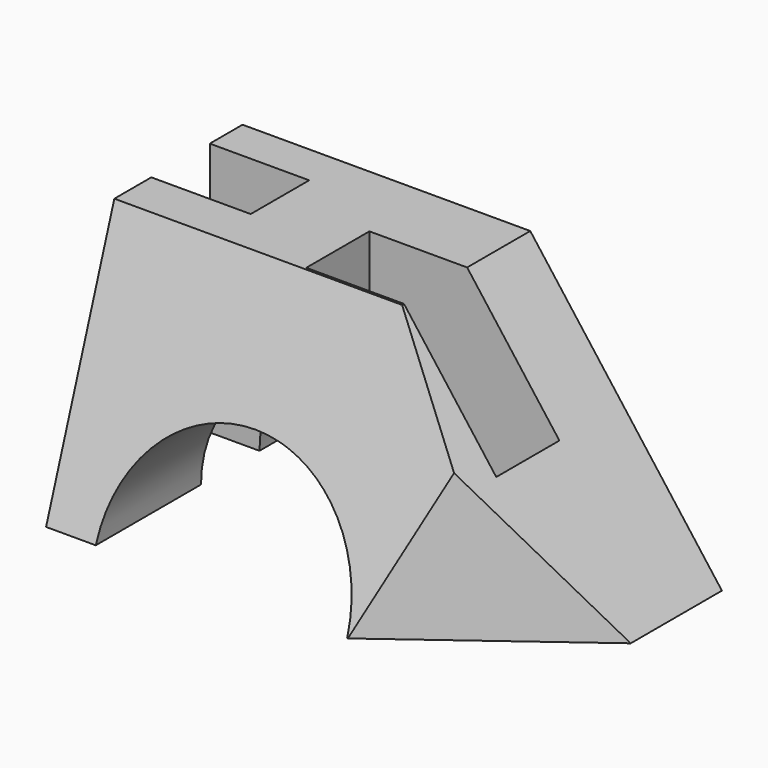
from build123d import *

# Parameters (mm, degrees)
F1_DEPTH       = 84
F3_W           = 33.4407976411
F3_H           = 27
F3_W_2         = 31.5592023589
F4_DEPTH       = 184
F5_W           = 34
F5_H           = 25
F6_DEPTH       = 363
F8_DEPTH       = 191
F13_DEPTH      = 133.5
F13_DEPTH_BACK = 142.2
F15_DEPTH      = 289
F15_DEPTH_BACK = 99


with BuildPart() as f1:
    # F0 (on Front) → F1 (new body)
    with BuildSketch(Plane.XZ):
        Polygon((26.1924322695, 48.2902998924), (-72.2483653716, 48.2902998924), (-72.2483653716, -38.7097001076), (91.7516346284, -38.7097001076), align=None)
    extrude(amount=F1_DEPTH)

    # F3 (on offset) → F4 (cut)
    with BuildSketch(Plane.XY.offset(73.2902998924)):
        with Locations((9.4720334489, -40.5)):
            Rectangle(F3_W, F3_H)
        with Locations((41.9720334489, -40.5)):
            Rectangle(F3_W_2, F3_H)
    extrude(amount=-F4_DEPTH, mode=Mode.SUBTRACT)

    # F5 (on face) → F6 (cut)
    with BuildSketch(Plane.XY.offset(48.2902998924)):
        with Locations((-55.2483653716, -26.5)):
            Rectangle(F5_W, F5_H)
    extrude(amount=-F6_DEPTH, mode=Mode.SUBTRACT)

    # F7 (on face) → F8 (cut)
    with BuildSketch(Plane.XZ.offset(84)):
        with BuildLine():
            ThreePointArc((-55.2483653716, -38.7097001076), (-12.2483653716, -81.7097001076), (30.7516346284, -38.7097001076))
            ThreePointArc((30.7516346284, -38.7097001076), (-12.2483653716, 4.2902998924), (-55.2483653716, -38.7097001076))
        make_face()
    extrude(amount=-F8_DEPTH, mode=Mode.SUBTRACT)

    # F12 (on Right) → F13 (cut, two sides)
    with BuildSketch(Plane.YZ) as f13_sk:
        Polygon((-84, 4.2902998924), (-84, -38.7097001076), (-54.8107397577, 48.2902998924), (-84, 48.2902998924), align=None)
    extrude(amount=-F13_DEPTH, mode=Mode.SUBTRACT)
    extrude(f13_sk.sketch, amount=F13_DEPTH_BACK, mode=Mode.SUBTRACT)

    # F14 (on Top) → F15 (cut, two sides)
    with BuildSketch(Plane.XY) as f15_sk:
        Polygon((91.7516346284, -84), (91.7516346284, -64), (91.7516346284, -39), (30.9858489782, -84), align=None)
    extrude(amount=F15_DEPTH, mode=Mode.SUBTRACT)
    extrude(f15_sk.sketch, amount=-F15_DEPTH_BACK, mode=Mode.SUBTRACT)


solid = f1.part
